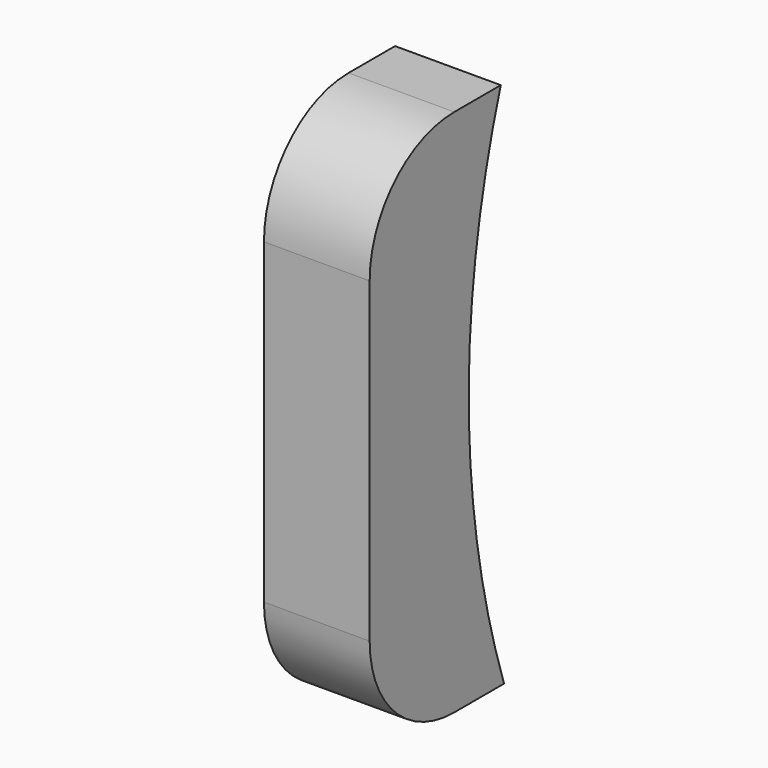
from build123d import *

# Parameters (mm, degrees)
F0_W     = 5
F0_H     = 8
F1_DEPTH = 25
F3_D     = 80.5
F4_R     = 5


with BuildPart() as f1:
    # F0 (on Top) → F1 (new body)
    with BuildSketch(Plane.XY):
        with Locations((-8.527812, 11.877605)):
            Rectangle(F0_W, F0_H)
    extrude(amount=F1_DEPTH)

    # F3 (through all)
    with Locations(Plane.YZ):
        with Locations((53.983625, 12.795336)):
            Hole(F3_D / 2)

    # F4
    f4_edges = [f1.edges().sort_by_distance(p)[0] for p in [
        (-8.527812, 7.877605, 0),
        (-8.527812, 7.877605, 25),
    ]]
    fillet(f4_edges, radius=F4_R)


solid = f1.part
